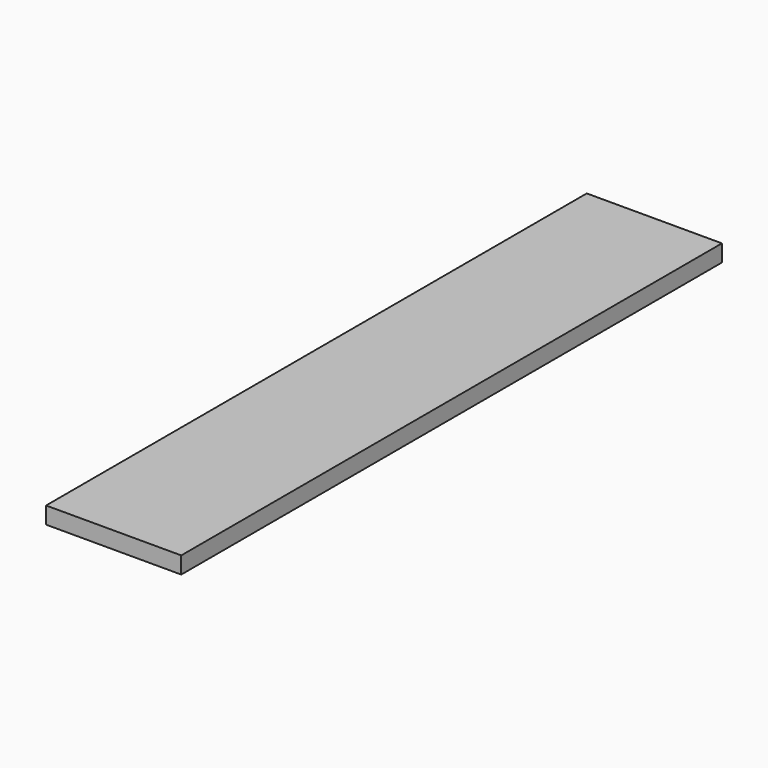
from build123d import *

# Parameters (mm, degrees)
SKETCH_W      = 40
SKETCH_H      = 200
EXTRUDE_DEPTH = 5


with BuildPart() as part:
    # Sketch → Extrude (new body)
    with BuildSketch(Plane.XY):
        with Locations((2.604904, -28.38457)):
            Rectangle(SKETCH_W, SKETCH_H)
    extrude(amount=EXTRUDE_DEPTH)


solid = part.part
